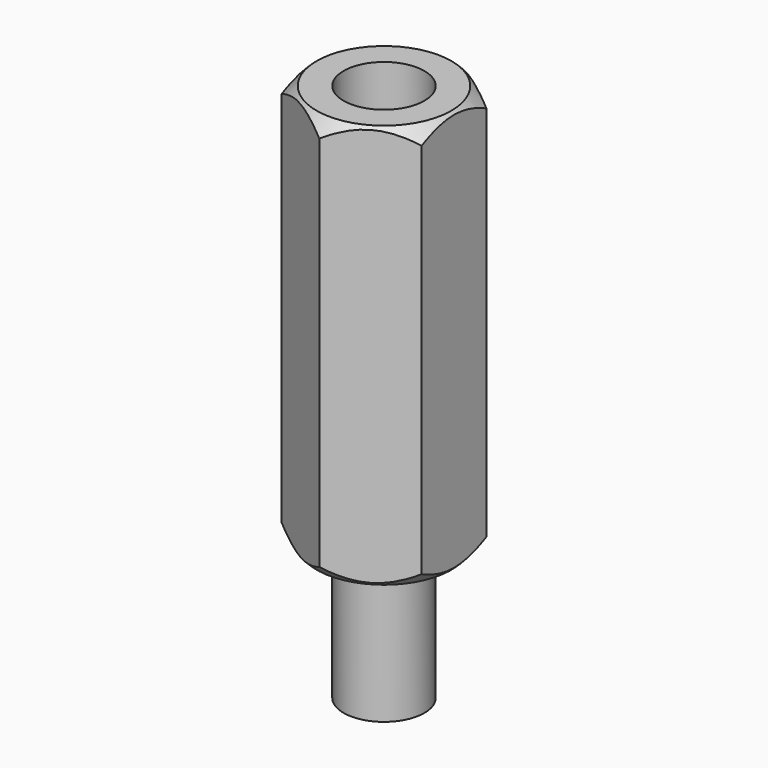
from build123d import *

# Parameters (mm, degrees)
PAD_DEPTH    = 7.5
SKETCH001_R  = 1.5
POCKET_DEPTH = 4
SKETCH004_R  = 1.5
PAD001_DEPTH = 5


with BuildPart() as part:
    # Sketch → Pad (new body, symmetric)
    with BuildSketch(Plane.XY):
        Polygon((2.6, 1.501111), (0, 3.002221), (-2.6, 1.501111), (-2.6, -1.501111), (0, -3.002221), (2.6, -1.501111), align=None)
    extrude(amount=PAD_DEPTH, both=True)

    # Sketch001 (on Face8 of Pad) → Pocket (cut)
    with BuildSketch(Plane.XY.offset(7.5)):
        Circle(SKETCH001_R)
    extrude(amount=-POCKET_DEPTH, mode=Mode.SUBTRACT)

    # Sketch004 (on Face4 of Pocket) → Pad001 (join)
    with BuildSketch(Plane(origin=(0, 0, -7.5), x_dir=(1, 0, 0), z_dir=(0, 0, -1))):
        Circle(SKETCH004_R)
    extrude(amount=PAD001_DEPTH)

    # Sketch005 → Groove (revolve, cut)
    with BuildSketch(Plane.YZ):
        Polygon((2, 8), (6, 8), (6, -8), (2, -8), (5, -5), (5, 5), align=None)
    revolve(axis=Axis((0, 0, 0), (0, 0, 1)), mode=Mode.SUBTRACT)


solid = part.part
